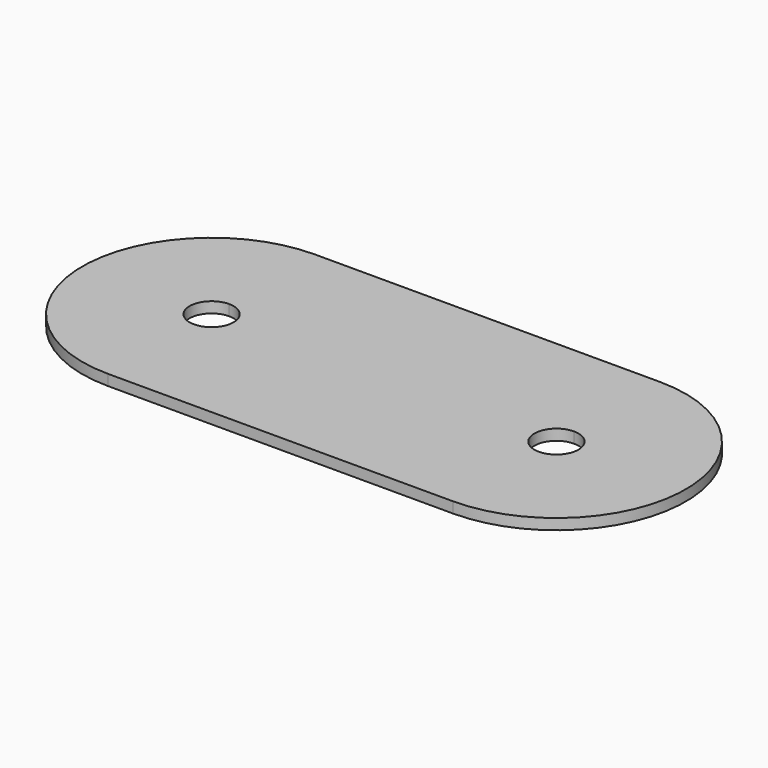
from build123d import *

# Parameters (mm, degrees)
F1_DEPTH = 3.175


with BuildPart() as f1:
    # F0 (on Top) → F1 (new body)
    with BuildSketch(Plane.XY):
        with BuildLine():
            Line((63.5, 38.1), (-38.1, 38.1))
            Line((-38.1, 38.1), (-38.1, 6.477))
            ThreePointArc((-38.1, 6.477), (-33.520069, 4.579931), (-31.623, 0))
            ThreePointArc((-31.623, 0), (-33.520069, -4.579931), (-38.1, -6.477))
            Line((-38.1, -6.477), (-38.1, -38.1))
            Line((-38.1, -38.1), (63.5, -38.1))
            Line((63.5, -38.1), (63.5, -6.477))
            ThreePointArc((63.5, -6.477), (57.023, 0), (63.5, 6.477))
            Line((63.5, 6.477), (63.5, 38.1))
        make_face()
        with BuildLine():
            Line((-38.1, 6.477), (-38.1, 38.1))
            ThreePointArc((-38.1, 38.1), (-76.2, 0), (-38.1, -38.1))
            Line((-38.1, -38.1), (-38.1, -6.477))
            ThreePointArc((-38.1, -6.477), (-44.577, 0), (-38.1, 6.477))
        make_face()
        with BuildLine():
            ThreePointArc((63.5, -38.1), (101.6, 0), (63.5, 38.1))
            Line((63.5, 38.1), (63.5, 6.477))
            ThreePointArc((63.5, 6.477), (68.079931, 4.579931), (69.977, 0))
            ThreePointArc((69.977, 0), (68.079931, -4.579931), (63.5, -6.477))
            Line((63.5, -6.477), (63.5, -38.1))
        make_face()
    extrude(amount=F1_DEPTH)


solid = f1.part
